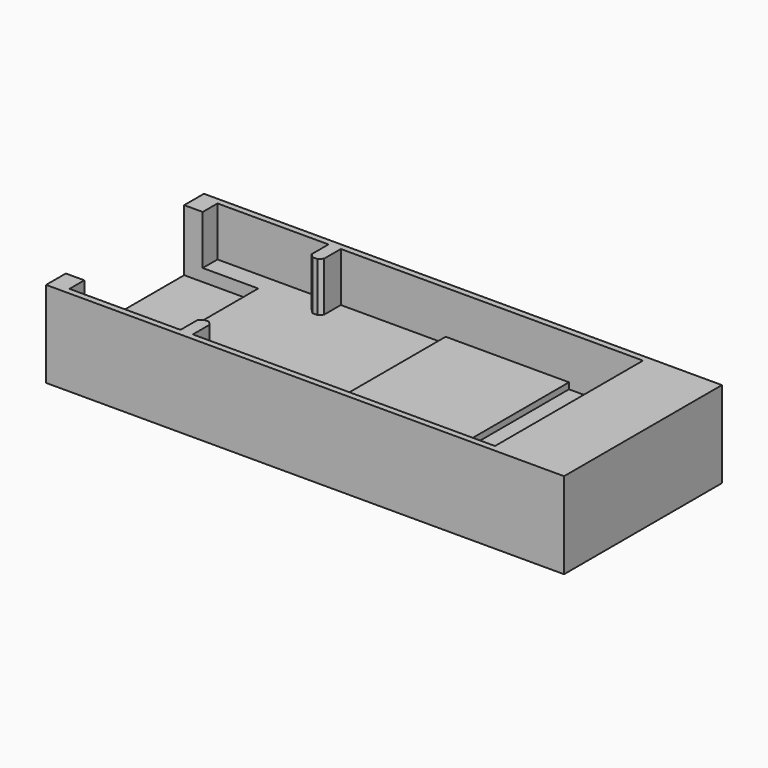
from build123d import *

# Parameters (mm, degrees)
BOX003_W        = 1
BOX003_H        = 2
BOX003_DEPTH    = 4
CHAMFER001_SIZE = 0.3
BOX004_W        = 1
BOX004_H        = 2
BOX004_DEPTH    = 4
CHAMFER_SIZE    = 0.3
BOX005_W        = 10
BOX005_H        = 15
BOX005_DEPTH    = 0.5
BOX006_W        = 0.5
BOX006_H        = 15
BOX006_DEPTH    = 4
BOX001_W        = 6
BOX001_H        = 12
BOX001_DEPTH    = 5
BOX002_W        = 34
BOX002_H        = 15
BOX002_DEPTH    = 4
BOX_W           = 37
BOX_H           = 16
BOX_DEPTH       = 7
BOX008_W        = 5
BOX008_H        = 16
BOX008_DEPTH    = 7


with BuildPart() as chamfer001:
    # Box003 → Box003 (new body)
    with BuildSketch(Plane(origin=(10.5, 0.5, 3), x_dir=(1, 0, 0), z_dir=(0, 0, 1))):
        with Locations((0.5, 1)):
            Rectangle(BOX003_W, BOX003_H)
    extrude(amount=BOX003_DEPTH)

    # Chamfer001
    chamfer001_edges = [chamfer001.edges().sort_by_distance(p)[0] for p in [
        (10.5, 2.5, 5),
        (11.5, 2.5, 5),
    ]]
    chamfer(chamfer001_edges, length=CHAMFER001_SIZE)


with BuildPart() as chamfer_body:
    # Box004 → Box004 (new body)
    with BuildSketch(Plane(origin=(10.5, 13.5, 3), x_dir=(1, 0, 0), z_dir=(0, 0, 1))):
        with Locations((0.5, 1)):
            Rectangle(BOX004_W, BOX004_H)
    extrude(amount=BOX004_DEPTH)

    # Chamfer
    chamfer_edges = [chamfer_body.edges().sort_by_distance(p)[0] for p in [
        (10.5, 13.5, 5),
        (11.5, 13.5, 5),
    ]]
    chamfer(chamfer_edges, length=CHAMFER_SIZE)


with BuildPart() as cube005:
    # Box005 → Box005 (new body)
    with BuildSketch(Plane(origin=(20, 0.5, 3), x_dir=(1, 0, 0), z_dir=(0, 0, 1))):
        with Locations((5, 7.5)):
            Rectangle(BOX005_W, BOX005_H)
    extrude(amount=BOX005_DEPTH)


with BuildPart() as cube006:
    # Box006 → Box006 (new body)
    with BuildSketch(Plane(origin=(1.5, 0.5, 3), x_dir=(1, 0, 0), z_dir=(0, 0, 1))):
        with Locations((0.25, 7.5)):
            Rectangle(BOX006_W, BOX006_H)
    extrude(amount=BOX006_DEPTH)


with BuildPart() as cube001:
    # Box001 → Box001 (new body)
    with BuildSketch(Plane(origin=(0, 2, 2), x_dir=(1, 0, 0), z_dir=(0, 0, 1))):
        with Locations((3, 6)):
            Rectangle(BOX001_W, BOX001_H)
    extrude(amount=BOX001_DEPTH)


with BuildPart() as cube002:
    # Box002 → Box002 (new body)
    with BuildSketch(Plane(origin=(2, 0.5, 3), x_dir=(1, 0, 0), z_dir=(0, 0, 1))):
        with Locations((17, 7.5)):
            Rectangle(BOX002_W, BOX002_H)
    extrude(amount=BOX002_DEPTH)


with BuildPart() as fusion:
    # Box → Box (new body)
    with BuildSketch(Plane.XY):
        with Locations((18.5, 8)):
            Rectangle(BOX_W, BOX_H)
    extrude(amount=BOX_DEPTH)

    # Cut: cut Cube002
    add(cube002.part, mode=Mode.SUBTRACT)

    # Cut001: cut Cube001
    add(cube001.part, mode=Mode.SUBTRACT)

    # Cut002: cut Cube006
    add(cube006.part, mode=Mode.SUBTRACT)

    # Fusion: union Chamfer001, Chamfer body, Cube005
    add(chamfer001.part)
    add(chamfer_body.part)
    add(cube005.part)


with BuildPart() as inner:
    # Box008 → Box008 (new body)
    with BuildSketch(Plane(origin=(37, 0, 0), x_dir=(1, 0, 0), z_dir=(0, 0, 1))):
        with Locations((2.5, 8)):
            Rectangle(BOX008_W, BOX008_H)
    extrude(amount=BOX008_DEPTH)

    # Fusion001: union Fusion
    add(fusion.part)


solid = inner.part
